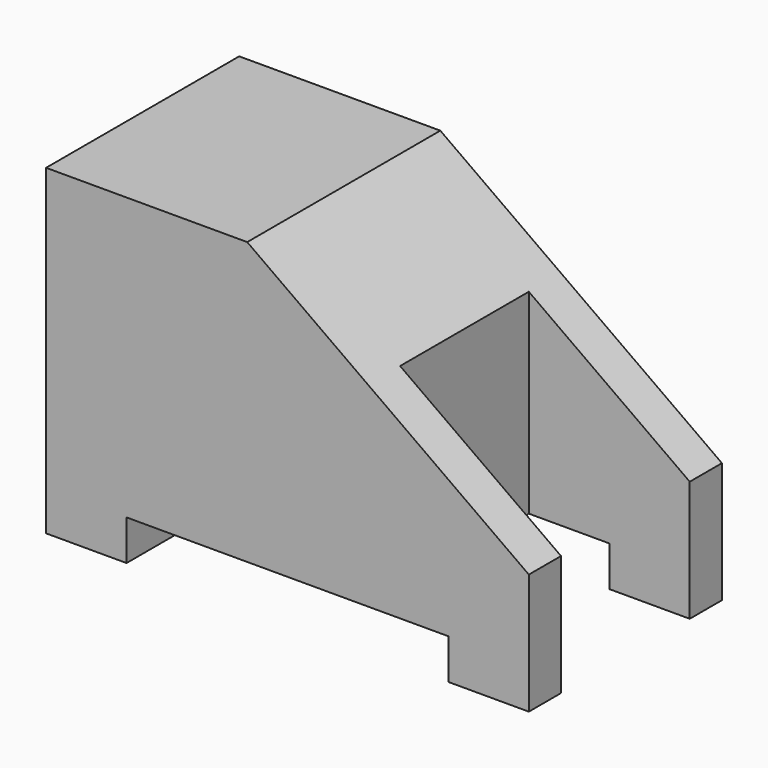
from build123d import *

# Parameters (mm, degrees)
F0_W     = 12.5
F0_H     = 15
F1_DEPTH = 20
F2_DEPTH = 20
F4_DEPTH = 15.001
F3_W     = 20
F3_H     = 2.5
F5_DEPTH = 15.001


with BuildPart() as f1:
    # F0 (on Top) → F1 (new body)
    with BuildSketch(Plane.XY):
        with Locations((6.25, 7.5)):
            Rectangle(F0_W, F0_H)
    extrude(amount=-F1_DEPTH)

    # F0 (on Top) → F2 (join)
    with BuildSketch(Plane.XY):
        Polygon((12.5, 15), (12.5, 0), (20, 0), (30, 0), (30, 2.5), (20, 2.5), (20, 12.5), (30, 12.5), (30, 15), (20, 15), align=None)
    extrude(amount=-F2_DEPTH)

    # F3 (on face) → F4 (cut, through all)
    with BuildSketch(Plane.XZ):
        Polygon((30, 0), (12.5, 0), (30, -12.5), align=None)
    extrude(amount=-F4_DEPTH, mode=Mode.SUBTRACT)

    # F3 (on face) → F5 (cut, through all)
    with BuildSketch(Plane.XZ):
        with Locations((15, -18.75)):
            Rectangle(F3_W, F3_H)
    extrude(amount=-F5_DEPTH, mode=Mode.SUBTRACT)


solid = f1.part
